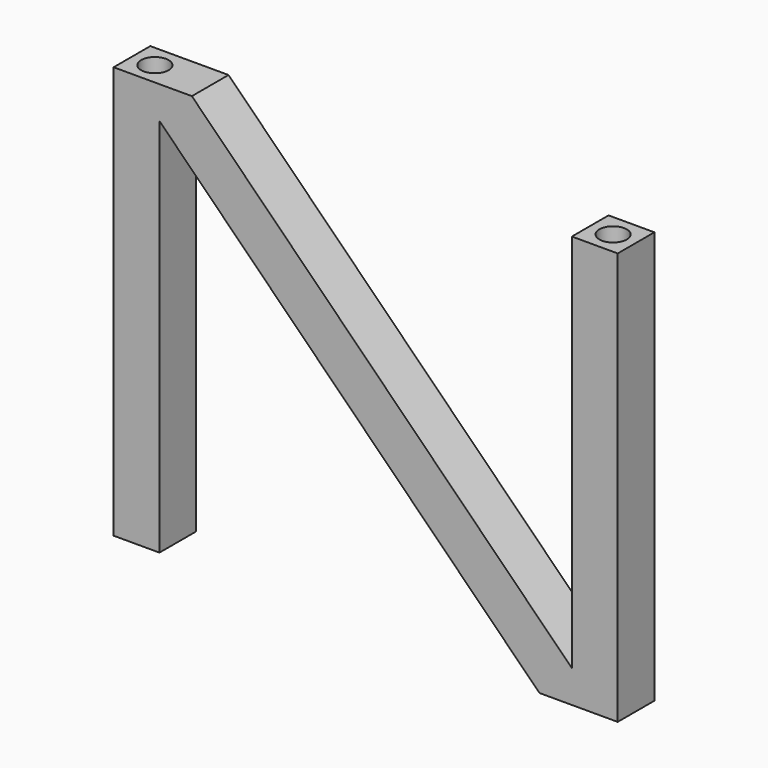
from build123d import *

# Parameters (mm, degrees)
F1_DEPTH = 5
F2_R     = 1.5
F2_R_2   = 4.115786
F3_DEPTH = 5.5
F4_R     = 1.5
F5_DEPTH = 5.5


with BuildPart() as f1:
    # F0 (on Front) → F1 (new body)
    with BuildSketch(Plane.XZ):
        Polygon((-46.464466, 45), (-55, 45), (-55, 0), (-50, 0), (-50, 41.464466), (-8.535534, 0), (0, 0), (0, 45), (-5, 45), (-5, 3.535534), align=None)
    extrude(amount=F1_DEPTH)

    # F2 (on face) → F3 (cut)
    with BuildSketch(Plane.XY.offset(45)):
        with Locations((-52.5, -2.5)):
            Circle(F2_R)
        with Locations((-2.5, -2.5)):
            Circle(F2_R)
        with Locations((101.68349, -24.659157)):
            Circle(F2_R_2)
    extrude(amount=-F3_DEPTH, mode=Mode.SUBTRACT)

    # F4 (on face) → F5 (cut)
    with BuildSketch(Plane(origin=(0, 0, 0), x_dir=(1, 0, 0), z_dir=(0, 0, -1))):
        with Locations((-52.5, 2.5)):
            Circle(F4_R)
        with Locations((-2.5, 2.5)):
            Circle(F4_R)
    extrude(amount=-F5_DEPTH, mode=Mode.SUBTRACT)


solid = f1.part
